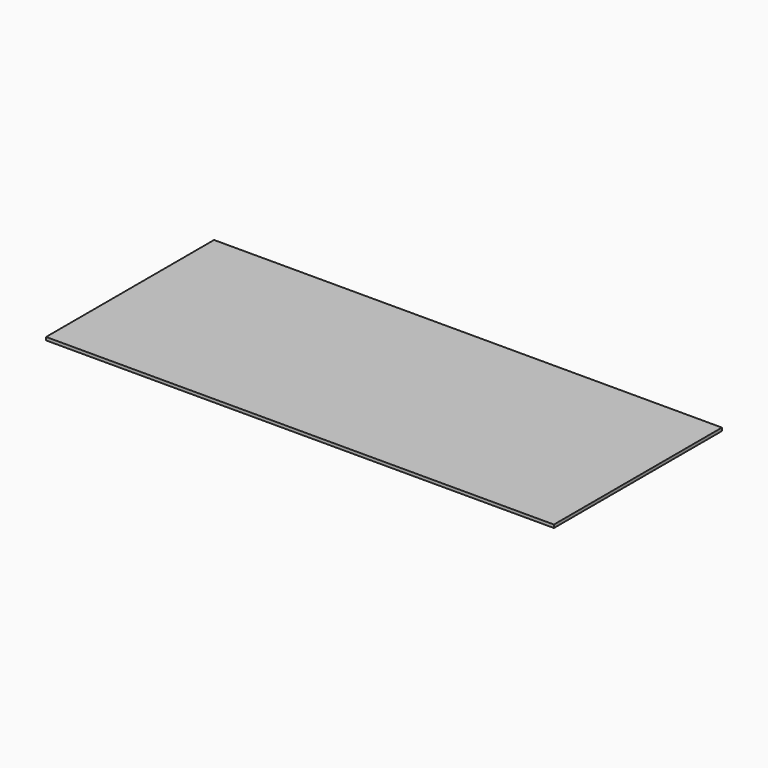
from build123d import *

# Parameters (mm, degrees)
F0_W     = 279.31
F0_H     = 340
F0_W_2   = 20.48
F0_W_3   = 170
F0_W_4   = 111
F0_W_5   = 39.75
F0_W_6   = 81.93
F0_H_2   = 291
F1_DEPTH = 5


with BuildPart() as f1:
    # F0 (on Top) → F1 (new body)
    with BuildSketch(Plane.XY):
        with Locations((417.838062, 170)):
            Rectangle(F0_W, F0_H)
        with Locations((567.733062, 170)):
            Rectangle(F0_W_2, F0_H)
        with Locations((193.183062, 170)):
            Rectangle(F0_W_3, F0_H)
        with Locations((52.683062, 170)):
            Rectangle(F0_W_4, F0_H)
        with Locations((-22.691938, 170)):
            Rectangle(F0_W_5, F0_H)
        Polygon((-80.436938, 0), (-42.566938, 0), (-42.566938, 340), (-57.234206, 340), (-80.436938, 340), (-80.436938, 291), align=None)
        with Locations((-121.401938, 145.5)):
            Rectangle(F0_W_6, F0_H_2)
        Polygon((-162.366938, 291), (-80.436938, 291), (-80.436938, 340), (-244.296938, 340), (-244.296938, 291), align=None)
        with Locations((-203.331938, 145.5)):
            Rectangle(F0_W_6, F0_H_2)
    extrude(amount=F1_DEPTH)


solid = f1.part
